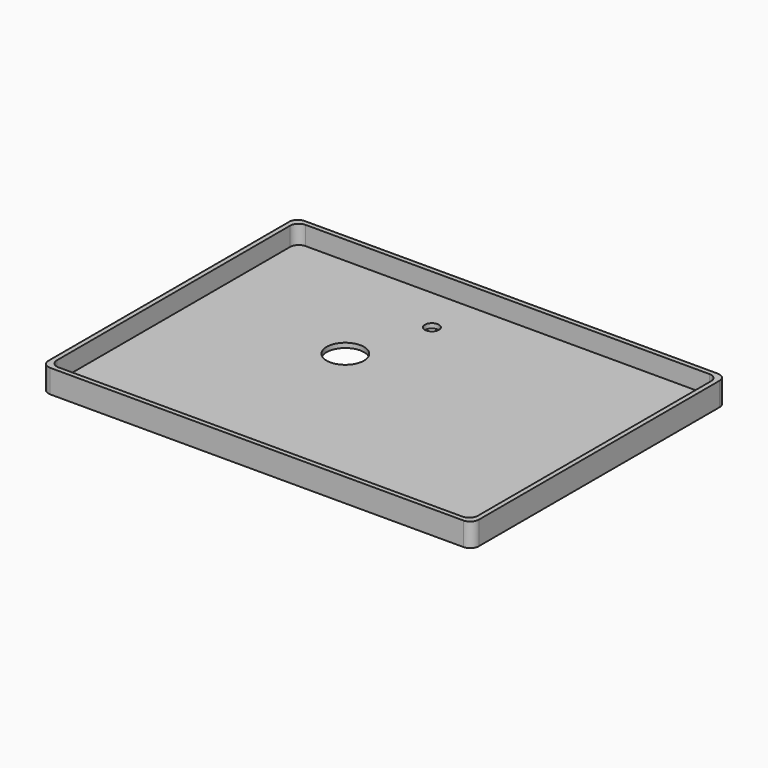
from build123d import *

# Parameters (mm, degrees)
F0_W     = 92
F0_H     = 68
F0_W_2   = 90
F0_H_2   = 66
F2_DEPTH = 5
F3_DEPTH = 1
F1_R     = 4
F1_R_2   = 1.5
F4_DEPTH = 2.54
F5_R     = 1.8288


with BuildPart() as f2:
    # F0 (on Top) → F2 (new body)
    with BuildSketch(Plane.XY):
        Rectangle(F0_W, F0_H)
        Rectangle(F0_W_2, F0_H_2, mode=Mode.SUBTRACT)
    extrude(amount=F2_DEPTH)

    # F0 (on Top) → F3 (join)
    with BuildSketch(Plane.XY):
        Rectangle(F0_W_2, F0_H_2)
    extrude(amount=F3_DEPTH)

    # F1 (on Top) → F4 (cut)
    with BuildSketch(Plane.XY):
        with Locations((-13.673795, 6.754091)):
            Circle(F1_R)
        with Locations((-8.367444, 23.254091)):
            Circle(F1_R_2)
    extrude(amount=F4_DEPTH, mode=Mode.SUBTRACT)

    # F5
    f5_edges = [f2.edges().sort_by_distance(p)[0] for p in [
        (-45, 33, 3),
        (45, 33, 3),
        (-45, -33, 3),
        (45, -33, 3),
        (46, -34, 2.5),
        (-46, -34, 2.5),
        (-46, 34, 2.5),
        (46, 34, 2.5),
    ]]
    fillet(f5_edges, radius=F5_R)


solid = f2.part
